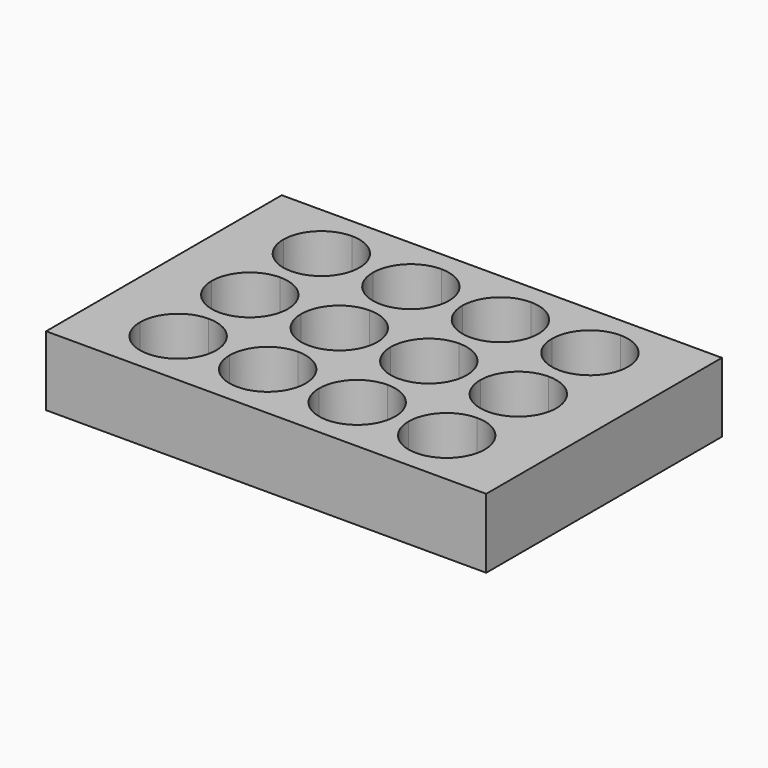
from build123d import *

# Parameters (mm, degrees)
F0_W     = 127.89
F0_H     = 85.6
F1_DEPTH = 20.2
F3_DEPTH = 17.53


with BuildPart() as f1:
    # F0 (on Top) → F1 (new body)
    with BuildSketch(Plane.XY):
        Rectangle(F0_W, F0_H)
    extrude(amount=F1_DEPTH)

    # F2 (on face) → F3 (cut)
    with BuildSketch(Plane.XY.offset(20.2)):
        with BuildLine():
            Line((-39.005, 26.01), (-39.005, 37.065))
            ThreePointArc((-39.005, 37.065), (-46.822065466, 33.827065466), (-50.06, 26.01))
            Line((-50.06, 26.01), (-39.005, 26.01))
        make_face()
        with BuildLine():
            ThreePointArc((-27.95, 26.01), (-31.187934534, 33.827065466), (-39.005, 37.065))
            Line((-39.005, 37.065), (-39.005, 26.01))
            Line((-39.005, 26.01), (-27.95, 26.01))
        make_face()
        with BuildLine():
            Line((-27.95, 26.01), (-39.005, 26.01))
            Line((-39.005, 26.01), (-39.005, 14.955))
            ThreePointArc((-39.005, 14.955), (-31.187934534, 18.192934534), (-27.95, 26.01))
        make_face()
        with BuildLine():
            Line((-39.005, 14.955), (-39.005, 26.01))
            Line((-39.005, 26.01), (-50.06, 26.01))
            ThreePointArc((-50.06, 26.01), (-46.822065466, 18.192934534), (-39.005, 14.955))
        make_face()
        with BuildLine():
            ThreePointArc((-39.005, 11.055), (-46.822065466, 7.817065466), (-50.06, 0))
            Line((-50.06, 0), (-39.005, 0))
            Line((-39.005, 0), (-39.005, 11.055))
        make_face()
        with BuildLine():
            ThreePointArc((-27.95, 0), (-31.187934534, 7.817065466), (-39.005, 11.055))
            Line((-39.005, 11.055), (-39.005, 0))
            Line((-39.005, 0), (-27.95, 0))
        make_face()
        with BuildLine():
            Line((-39.005, 0), (-50.06, 0))
            ThreePointArc((-50.06, 0), (-46.822065466, -7.817065466), (-39.005, -11.055))
            Line((-39.005, -11.055), (-39.005, 0))
        make_face()
        with BuildLine():
            Line((-27.95, 0), (-39.005, 0))
            Line((-39.005, 0), (-39.005, -11.055))
            ThreePointArc((-39.005, -11.055), (-31.187934534, -7.817065466), (-27.95, 0))
        make_face()
        with BuildLine():
            Line((-39.005, -14.955), (-39.005, -26.01))
            Line((-39.005, -26.01), (-27.95, -26.01))
            ThreePointArc((-27.95, -26.01), (-31.187934534, -18.192934534), (-39.005, -14.955))
        make_face()
        with BuildLine():
            ThreePointArc((-39.005, -14.955), (-46.822065466, -18.192934534), (-50.06, -26.01))
            Line((-50.06, -26.01), (-39.005, -26.01))
            Line((-39.005, -26.01), (-39.005, -14.955))
        make_face()
        with BuildLine():
            Line((-39.005, -26.01), (-50.06, -26.01))
            ThreePointArc((-50.06, -26.01), (-46.822065466, -33.827065466), (-39.005, -37.065))
            Line((-39.005, -37.065), (-39.005, -26.01))
        make_face()
        with BuildLine():
            Line((-39.005, -26.01), (-39.005, -37.065))
            ThreePointArc((-39.005, -37.065), (-31.187934534, -33.827065466), (-27.95, -26.01))
            Line((-27.95, -26.01), (-39.005, -26.01))
        make_face()
        with BuildLine():
            ThreePointArc((-24.05, -26.01), (-20.812065466, -33.827065466), (-12.995, -37.065))
            Line((-12.995, -37.065), (-12.995, -26.01))
            Line((-12.995, -26.01), (-24.05, -26.01))
        make_face()
        with BuildLine():
            Line((-12.995, -26.01), (-12.995, -37.065))
            ThreePointArc((-12.995, -37.065), (-5.177934534, -33.827065466), (-1.94, -26.01))
            Line((-1.94, -26.01), (-12.995, -26.01))
        make_face()
        with BuildLine():
            Line((-12.995, -14.955), (-12.995, -26.01))
            Line((-12.995, -26.01), (-1.94, -26.01))
            ThreePointArc((-1.94, -26.01), (-5.177934534, -18.192934534), (-12.995, -14.955))
        make_face()
        with BuildLine():
            Line((-24.05, -26.01), (-12.995, -26.01))
            Line((-12.995, -26.01), (-12.995, -14.955))
            ThreePointArc((-12.995, -14.955), (-20.812065466, -18.192934534), (-24.05, -26.01))
        make_face()
        with BuildLine():
            Line((-12.995, -11.055), (-12.995, 0))
            Line((-12.995, 0), (-24.05, 0))
            ThreePointArc((-24.05, 0), (-20.812065466, -7.817065466), (-12.995, -11.055))
        make_face()
        with BuildLine():
            Line((-1.94, 0), (-12.995, 0))
            Line((-12.995, 0), (-12.995, -11.055))
            ThreePointArc((-12.995, -11.055), (-5.177934534, -7.817065466), (-1.94, 0))
        make_face()
        with BuildLine():
            ThreePointArc((-1.94, 0), (-5.177934534, 7.817065466), (-12.995, 11.055))
            Line((-12.995, 11.055), (-12.995, 0))
            Line((-12.995, 0), (-1.94, 0))
        make_face()
        with BuildLine():
            Line((-12.995, 0), (-12.995, 11.055))
            ThreePointArc((-12.995, 11.055), (-20.812065466, 7.817065466), (-24.05, 0))
            Line((-24.05, 0), (-12.995, 0))
        make_face()
        with BuildLine():
            Line((-12.995, 14.955), (-12.995, 26.01))
            Line((-12.995, 26.01), (-24.05, 26.01))
            ThreePointArc((-24.05, 26.01), (-20.812065466, 18.192934534), (-12.995, 14.955))
        make_face()
        with BuildLine():
            Line((-1.94, 26.01), (-12.995, 26.01))
            Line((-12.995, 26.01), (-12.995, 14.955))
            ThreePointArc((-12.995, 14.955), (-5.177934534, 18.192934534), (-1.94, 26.01))
        make_face()
        with BuildLine():
            ThreePointArc((-1.94, 26.01), (-5.177934534, 33.827065466), (-12.995, 37.065))
            Line((-12.995, 37.065), (-12.995, 26.01))
            Line((-12.995, 26.01), (-1.94, 26.01))
        make_face()
        with BuildLine():
            Line((-12.995, 26.01), (-12.995, 37.065))
            ThreePointArc((-12.995, 37.065), (-20.812065466, 33.827065466), (-24.05, 26.01))
            Line((-24.05, 26.01), (-12.995, 26.01))
        make_face()
        with BuildLine():
            Line((13.015, 26.01), (13.015, 37.065))
            ThreePointArc((13.015, 37.065), (5.197934534, 33.827065466), (1.96, 26.01))
            Line((1.96, 26.01), (13.015, 26.01))
        make_face()
        with BuildLine():
            ThreePointArc((24.07, 26.01), (20.832065466, 33.827065466), (13.015, 37.065))
            Line((13.015, 37.065), (13.015, 26.01))
            Line((13.015, 26.01), (24.07, 26.01))
        make_face()
        with BuildLine():
            Line((24.07, 26.01), (13.015, 26.01))
            Line((13.015, 26.01), (13.015, 14.955))
            ThreePointArc((13.015, 14.955), (20.832065466, 18.192934534), (24.07, 26.01))
        make_face()
        with BuildLine():
            Line((13.015, 14.955), (13.015, 26.01))
            Line((13.015, 26.01), (1.96, 26.01))
            ThreePointArc((1.96, 26.01), (5.197934534, 18.192934534), (13.015, 14.955))
        make_face()
        with BuildLine():
            Line((13.015, 0), (13.015, 11.055))
            ThreePointArc((13.015, 11.055), (5.197934534, 7.817065466), (1.96, 0))
            Line((1.96, 0), (13.015, 0))
        make_face()
        with BuildLine():
            ThreePointArc((24.07, 0), (20.832065466, 7.817065466), (13.015, 11.055))
            Line((13.015, 11.055), (13.015, 0))
            Line((13.015, 0), (24.07, 0))
        make_face()
        with BuildLine():
            Line((13.015, -11.055), (13.015, 0))
            Line((13.015, 0), (1.96, 0))
            ThreePointArc((1.96, 0), (5.197934534, -7.817065466), (13.015, -11.055))
        make_face()
        with BuildLine():
            ThreePointArc((13.015, -11.055), (20.832065466, -7.817065466), (24.07, 0))
            Line((24.07, 0), (13.015, 0))
            Line((13.015, 0), (13.015, -11.055))
        make_face()
        with BuildLine():
            Line((39.025, -11.055), (39.025, 0))
            Line((39.025, 0), (27.97, 0))
            ThreePointArc((27.97, 0), (31.207934534, -7.817065466), (39.025, -11.055))
        make_face()
        with BuildLine():
            ThreePointArc((39.025, -11.055), (46.842065466, -7.817065466), (50.08, 0))
            Line((50.08, 0), (39.025, 0))
            Line((39.025, 0), (39.025, -11.055))
        make_face()
        with BuildLine():
            Line((39.025, 0), (50.08, 0))
            ThreePointArc((50.08, 0), (46.842065466, 7.817065466), (39.025, 11.055))
            Line((39.025, 11.055), (39.025, 0))
        make_face()
        with BuildLine():
            Line((27.97, 0), (39.025, 0))
            Line((39.025, 0), (39.025, 11.055))
            ThreePointArc((39.025, 11.055), (31.207934534, 7.817065466), (27.97, 0))
        make_face()
        with BuildLine():
            Line((39.025, 14.955), (39.025, 26.01))
            Line((39.025, 26.01), (27.97, 26.01))
            ThreePointArc((27.97, 26.01), (31.207934534, 18.192934534), (39.025, 14.955))
        make_face()
        with BuildLine():
            ThreePointArc((39.025, 14.955), (46.842065466, 18.192934534), (50.08, 26.01))
            Line((50.08, 26.01), (39.025, 26.01))
            Line((39.025, 26.01), (39.025, 14.955))
        make_face()
        with BuildLine():
            ThreePointArc((50.08, 26.01), (46.842065466, 33.827065466), (39.025, 37.065))
            Line((39.025, 37.065), (39.025, 26.01))
            Line((39.025, 26.01), (50.08, 26.01))
        make_face()
        with BuildLine():
            Line((39.025, 26.01), (39.025, 37.065))
            ThreePointArc((39.025, 37.065), (31.207934534, 33.827065466), (27.97, 26.01))
            Line((27.97, 26.01), (39.025, 26.01))
        make_face()
        with BuildLine():
            Line((13.015, -26.01), (24.07, -26.01))
            ThreePointArc((24.07, -26.01), (20.832065466, -18.192934534), (13.015, -14.955))
            Line((13.015, -14.955), (13.015, -26.01))
        make_face()
        with BuildLine():
            Line((1.96, -26.01), (13.015, -26.01))
            Line((13.015, -26.01), (13.015, -14.955))
            ThreePointArc((13.015, -14.955), (5.197934534, -18.192934534), (1.96, -26.01))
        make_face()
        with BuildLine():
            ThreePointArc((1.96, -26.01), (5.197934534, -33.827065466), (13.015, -37.065))
            Line((13.015, -37.065), (13.015, -26.01))
            Line((13.015, -26.01), (1.96, -26.01))
        make_face()
        with BuildLine():
            Line((13.015, -26.01), (13.015, -37.065))
            ThreePointArc((13.015, -37.065), (20.832065466, -33.827065466), (24.07, -26.01))
            Line((24.07, -26.01), (13.015, -26.01))
        make_face()
        with BuildLine():
            Line((27.97, -26.01), (39.025, -26.01))
            Line((39.025, -26.01), (39.025, -14.955))
            ThreePointArc((39.025, -14.955), (31.207934534, -18.192934534), (27.97, -26.01))
        make_face()
        with BuildLine():
            Line((39.025, -26.01), (50.08, -26.01))
            ThreePointArc((50.08, -26.01), (46.842065466, -18.192934534), (39.025, -14.955))
            Line((39.025, -14.955), (39.025, -26.01))
        make_face()
        with BuildLine():
            ThreePointArc((39.025, -37.065), (46.842065466, -33.827065466), (50.08, -26.01))
            Line((50.08, -26.01), (39.025, -26.01))
            Line((39.025, -26.01), (39.025, -37.065))
        make_face()
        with BuildLine():
            Line((39.025, -37.065), (39.025, -26.01))
            Line((39.025, -26.01), (27.97, -26.01))
            ThreePointArc((27.97, -26.01), (31.207934534, -33.827065466), (39.025, -37.065))
        make_face()
    extrude(amount=-F3_DEPTH, mode=Mode.SUBTRACT)


solid = f1.part
